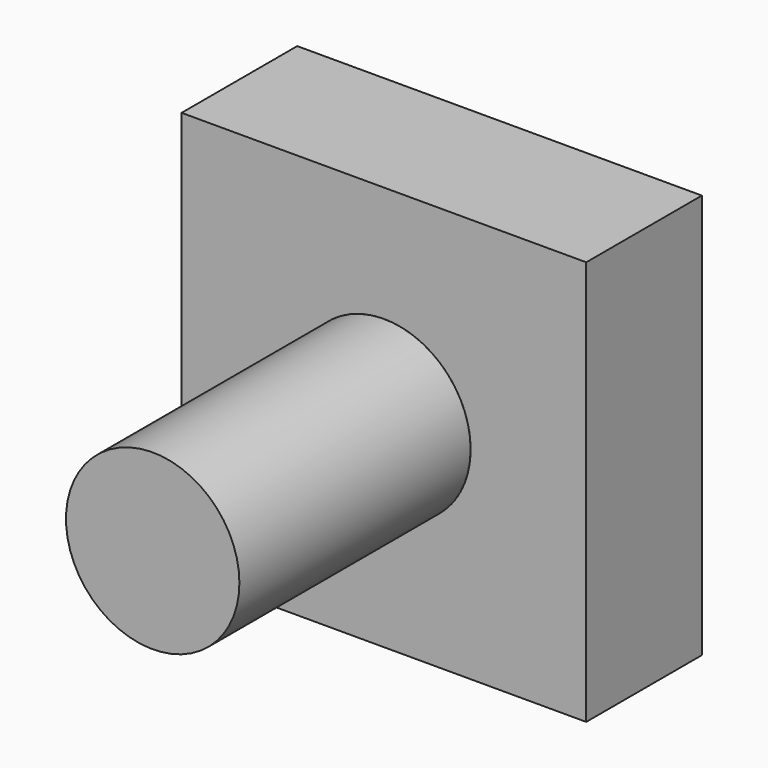
from build123d import *

# Parameters (mm, degrees)
F0_R     = 15
F1_DEPTH = 50
F2_W     = 70
F2_H     = 70
F2_R     = 15
F3_DEPTH = 25


with BuildPart() as f1:
    # F0 (on Front) → F1 (new body)
    with BuildSketch(Plane.XZ):
        Circle(F0_R)
    extrude(amount=F1_DEPTH)


with BuildPart() as f3:
    # F2 (on face) → F3 (new body)
    with BuildSketch(Plane(origin=(0, 0, 0), x_dir=(-1, 0, 0), z_dir=(0, 1, 0))):
        Rectangle(F2_W, F2_H)
        Circle(F2_R, mode=Mode.SUBTRACT)
    extrude(amount=F3_DEPTH)


solid = Compound([f1.part, f3.part])
